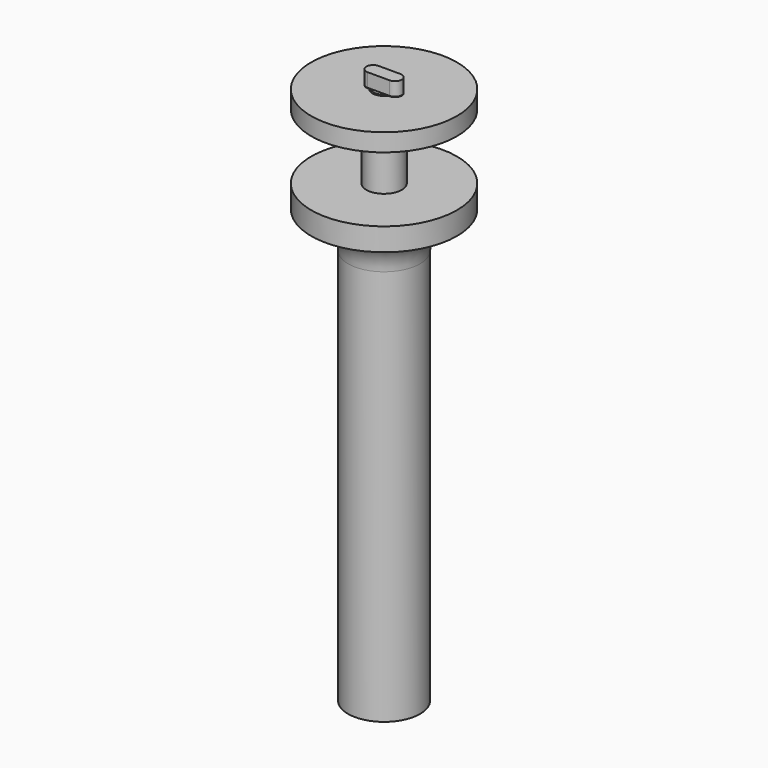
from build123d import *

# Parameters (mm, degrees)
F0_R      = 7.9
F1_DEPTH  = 100
F2_R      = 3.9
F3_DEPTH  = 14.3
F4_R      = 2.25
F5_DEPTH  = 4
F7_DEPTH  = 3
F8_R      = 16
F8_R_2    = 2.55
F9_DEPTH  = 3.9
F11_DEPTH = 3.9
F12_R     = 16
F13_DEPTH = 5
F14_R     = 8


with BuildPart() as f1:
    # F0 (on Top) → F1 (new body)
    with BuildSketch(Plane.XY):
        Circle(F0_R)
    extrude(amount=F1_DEPTH)

    # F2 (on face) → F3 (join)
    with BuildSketch(Plane.XY.offset(100)):
        Circle(F2_R)
    extrude(amount=F3_DEPTH)

    # F4 (on face) → F5 (join)
    with BuildSketch(Plane.XY.offset(114.3)):
        Circle(F4_R)
    extrude(amount=F5_DEPTH)

    # F6 (on face) → F7 (join)
    with BuildSketch(Plane.XY.offset(118.3)):
        with BuildLine():
            ThreePointArc((-2.4, 1.5), (-3.9, 0), (-2.4, -1.5))
            Line((-2.4, -1.5), (2.4, -1.5))
            ThreePointArc((2.4, -1.5), (3.9, 0), (2.4, 1.5))
            Line((2.4, 1.5), (-2.4, 1.5))
        make_face()
    extrude(amount=F7_DEPTH)

    # F12 (on face) → F13 (join)
    with BuildSketch(Plane.XY.offset(100)):
        Circle(F12_R)
    extrude(amount=-F13_DEPTH)

    # F14
    f14_edges = [f1.edges().sort_by_distance(p)[0] for p in [
        (-7.9, 0, 95),
    ]]
    fillet(f14_edges, radius=F14_R)


with BuildPart() as f9:
    # F8 (on face) → F9 (new body)
    with BuildSketch(Plane.XY.offset(114.3)):
        Circle(F8_R)
        Circle(F8_R_2, mode=Mode.SUBTRACT)
    extrude(amount=F9_DEPTH)

    # F10 (on face) → F11 (cut, through all)
    with BuildSketch(Plane.XY.offset(118.2)):
        with BuildLine():
            Line((2.4, 1.5), (-2.4, 1.5))
            ThreePointArc((-2.4, 1.5), (-3.9, 0), (-2.4, -1.5))
            Line((-2.4, -1.5), (2.4, -1.5))
            ThreePointArc((2.4, -1.5), (3.9, 0), (2.4, 1.5))
        make_face()
    extrude(amount=-F11_DEPTH, mode=Mode.SUBTRACT)


solid = Compound([f1.part, f9.part])
